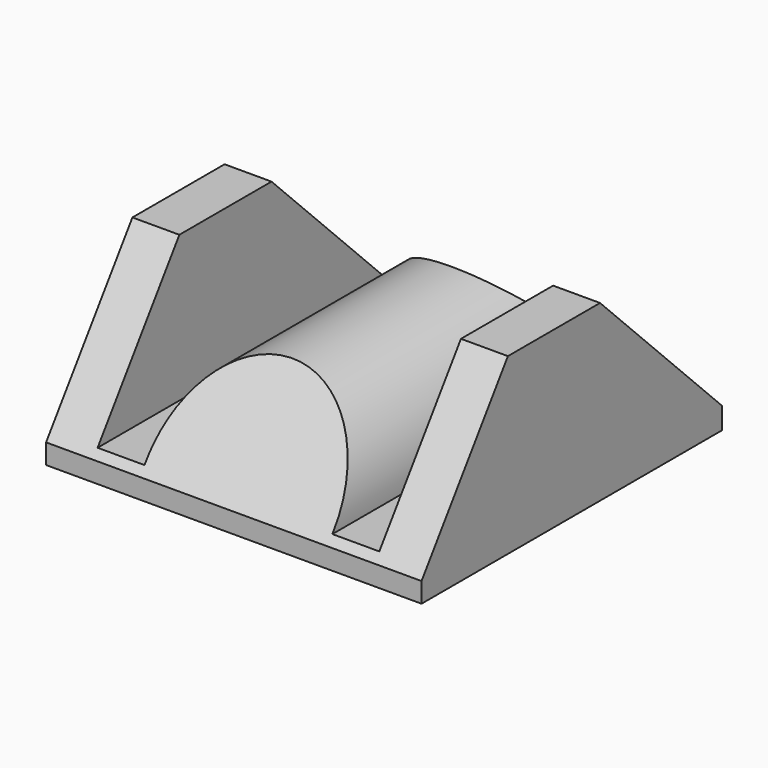
from build123d import *

# Parameters (mm, degrees)
F1_DEPTH  = 203.2
F3_W      = 243.94399
F3_H      = 236.642776
F4_DEPTH  = 50.8
F5_W      = 239.845752
F5_H      = 209.126156
F6_DEPTH  = 2.54
F8_W      = 249.582366
F8_H      = 241.68387
F9_DEPTH  = 76.2
F10_W     = 220.484912
F10_H     = 208.068371
F11_DEPTH = 2.54


with BuildPart() as f1:
    # F0 (on Front) → F1 (new body)
    with BuildSketch(Plane.XZ):
        with BuildLine():
            Line((-101.6, -47.114426), (101.6, -47.114426))
            Line((101.6, -47.114426), (101.6, 47.114426))
            Line((101.6, 47.114426), (76.2, 47.114426))
            Line((76.2, 47.114426), (76.2, -31.75))
            Line((76.2, -31.75), (50.8, -31.75))
            ThreePointArc((50.8, -31.75), (-0.064147, 20.566733), (-50.8, -31.874426))
            Line((-50.8, -31.874426), (-76.2, -31.874426))
            Line((-76.2, -31.874426), (-76.2, 47.114426))
            Line((-76.2, 47.114426), (-101.6, 47.114426))
            Line((-101.6, 47.114426), (-101.6, -31.874426))
            Line((-101.6, -31.874426), (-101.6, -47.114426))
        make_face()
    extrude(amount=-F1_DEPTH)

    # F3 (on face) → F4 (cut)
    with BuildSketch(Plane(origin=(0, 14.976081, -10.486365), x_dir=(1, 0, 0), z_dir=(0, -0.819152, 0.573576))):
        with Locations((0, 12.914947)):
            Rectangle(F3_W, F3_H)
    extrude(amount=F4_DEPTH, mode=Mode.SUBTRACT)

    # F5 (on face) → F6 (cut)
    with BuildSketch(Plane(origin=(0, 14.976081, -10.486365), x_dir=(1, 0, 0), z_dir=(0, -0.819152, 0.573576))):
        with Locations((0, 12.164494)):
            Rectangle(F5_W, F5_H)
    extrude(amount=-F6_DEPTH, mode=Mode.SUBTRACT)

    # F8 (on face) → F9 (cut)
    with BuildSketch(Plane(origin=(0, 85.725, 85.725), x_dir=(1, 0, 0), z_dir=(0, -0.707107, -0.707107))):
        with Locations((0, -104.242772)):
            Rectangle(F8_W, F8_H)
    extrude(amount=-F9_DEPTH, mode=Mode.SUBTRACT)

    # F10 (on face) → F11 (cut)
    with BuildSketch(Plane(origin=(0, 85.725, 85.725), x_dir=(1, 0, 0), z_dir=(0, -0.707107, -0.707107))):
        with Locations((0, -103.083611)):
            Rectangle(F10_W, F10_H)
    extrude(amount=F11_DEPTH, mode=Mode.SUBTRACT)


solid = f1.part
